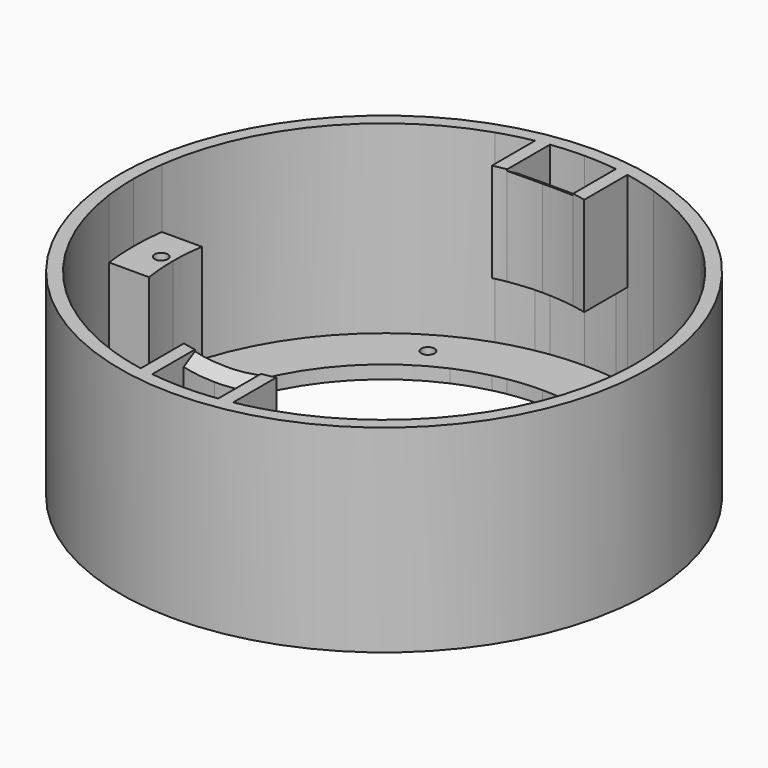
from build123d import *

# Parameters (mm, degrees)
F1_DEPTH = 30
F2_DEPTH = 21
F3_START = 15
F3_DEPTH = 15
F0_R     = 1
F4_DEPTH = 2
F5_START = 15
F5_DEPTH = 15
F6_START = 4
F6_DEPTH = 26
F8_START = -2
F8_DEPTH = 10


with BuildPart() as f1:
    # F0 (on Top) → F1 (new body)
    with BuildSketch(Plane.XY):
        with BuildLine():
            ThreePointArc((-5, 37.6696164037), (-2.5054517218, 37.917314141), (0, 38))
            Line((0, 38), (0, 40))
            ThreePointArc((0, 40), (-26.4575131106, 30), (-39.686269666, 5))
            Line((-39.686269666, 5), (-37.6696164037, 5))
            ThreePointArc((-37.6696164037, 5), (-29.2895700982, 24.2099377006), (-12, 36.0555127546))
            ThreePointArc((-12, 36.0555127546), (-9.5220128847, 36.7876510615), (-7, 37.349698794))
            ThreePointArc((-7, 37.349698794), (-6.0021318562, 37.5229851315), (-5, 37.6696164037))
        make_face()
        with BuildLine():
            Line((-37.6696164037, 5), (-39.686269666, 5))
            ThreePointArc((-39.686269666, 5), (-39.9214903695, 2.5049165017), (-40, 0))
            Line((-40, 0), (-38, 0))
            ThreePointArc((-38, 0), (-37.917314141, 2.5054517218), (-37.6696164037, 5))
        make_face()
        with BuildLine():
            Line((-38, 0), (-40, 0))
            ThreePointArc((-40, 0), (-39.9214903695, -2.5049165017), (-39.686269666, -5))
            Line((-39.686269666, -5), (-37.6696164037, -5))
            ThreePointArc((-37.6696164037, -5), (-37.917314141, -2.5054517218), (-38, 0))
        make_face()
        with BuildLine():
            Line((-37.6696164037, -5), (-39.686269666, -5))
            ThreePointArc((-39.686269666, -5), (-26.4575131106, -30), (0, -40))
            Line((0, -40), (0, -38))
            ThreePointArc((0, -38), (-2.5054517218, -37.917314141), (-5, -37.6696164037))
            ThreePointArc((-5, -37.6696164037), (-6.0021318562, -37.5229851315), (-7, -37.349698794))
            ThreePointArc((-7, -37.349698794), (-9.5220128847, -36.7876510615), (-12, -36.0555127546))
            ThreePointArc((-12, -36.0555127546), (-29.2895700982, -24.2099377006), (-37.6696164037, -5))
        make_face()
        with BuildLine():
            Line((39.686269666, -5), (37.6696164037, -5))
            ThreePointArc((37.6696164037, -5), (29.2895700982, -24.2099377006), (12, -36.0555127546))
            ThreePointArc((12, -36.0555127546), (9.5220128847, -36.7876510615), (7, -37.349698794))
            ThreePointArc((7, -37.349698794), (6.0021318562, -37.5229851315), (5, -37.6696164037))
            ThreePointArc((5, -37.6696164037), (2.5054517218, -37.917314141), (0, -38))
            Line((0, -38), (0, -40))
            ThreePointArc((0, -40), (26.4575131106, -30), (39.686269666, -5))
        make_face()
        with BuildLine():
            Line((40, 0), (38, 0))
            ThreePointArc((38, 0), (37.917314141, -2.5054517218), (37.6696164037, -5))
            Line((37.6696164037, -5), (39.686269666, -5))
            ThreePointArc((39.686269666, -5), (39.9214903695, -2.5049165017), (40, 0))
        make_face()
        with BuildLine():
            Line((39.686269666, 5), (37.6696164037, 5))
            ThreePointArc((37.6696164037, 5), (37.917314141, 2.5054517218), (38, 0))
            Line((38, 0), (40, 0))
            ThreePointArc((40, 0), (39.9214903695, 2.5049165017), (39.686269666, 5))
        make_face()
        with BuildLine():
            Line((29.7257930191, 26.7652242544), (28.2395033681, 25.4269630416))
            ThreePointArc((28.2395033681, 25.4269630416), (34.5009887112, 15.927390808), (37.6696164037, 5))
            Line((37.6696164037, 5), (39.686269666, 5))
            ThreePointArc((39.686269666, 5), (36.372240215, 16.6451236625), (29.7257930191, 26.7652242544))
        make_face()
        with BuildLine():
            ThreePointArc((7, 37.349698794), (9.5220128847, 36.7876510615), (12, 36.0555127546))
            ThreePointArc((12, 36.0555127546), (19.1171883736, 32.8410278263), (25.4269630416, 28.2395033681))
            Line((25.4269630416, 28.2395033681), (26.7652242544, 29.7257930191))
            ThreePointArc((26.7652242544, 29.7257930191), (14.3347179818, 37.3432170599), (0, 40))
            Line((0, 40), (0, 38))
            ThreePointArc((0, 38), (2.5054517218, 37.917314141), (5, 37.6696164037))
            ThreePointArc((5, 37.6696164037), (6.0021318562, 37.5229851315), (7, 37.349698794))
        make_face()
    extrude(amount=F1_DEPTH)

    # F0 (on Top) → F2 (join)
    with BuildSketch(Plane.XY):
        with BuildLine():
            Line((-31.6083544215, 5), (-37.6696164037, 5))
            ThreePointArc((-37.6696164037, 5), (-37.917314141, 2.5054517218), (-38, 0))
            Line((-38, 0), (-34.7751302719, 0))
            ThreePointArc((-34.7751302719, 0), (-33.7751302719, 1), (-32.7751302719, 0))
            Line((-32.7751302719, 0), (-32, 0))
            ThreePointArc((-32, 0), (-31.9019388817, 2.5076575852), (-31.6083544215, 5))
        make_face()
        with BuildLine():
            Line((-34.7751302719, 0), (-38, 0))
            ThreePointArc((-38, 0), (-37.917314141, -2.5054517218), (-37.6696164037, -5))
            Line((-37.6696164037, -5), (-31.6083544215, -5))
            ThreePointArc((-31.6083544215, -5), (-31.9019388817, -2.5076575852), (-32, 0))
            Line((-32, 0), (-32.7751302719, 0))
            ThreePointArc((-32.7751302719, 0), (-33.7751302719, -1), (-34.7751302719, 0))
        make_face()
        with BuildLine():
            ThreePointArc((38, 0), (37.917314141, 2.5054517218), (37.6696164037, 5))
            Line((37.6696164037, 5), (31.8332241496, 5))
            ThreePointArc((31.8332241496, 5), (32.1268086098, 2.5076575852), (32.2248697281, 0))
            Line((32.2248697281, 0), (33, 0))
            ThreePointArc((33, 0), (34, 1), (35, 0))
            Line((35, 0), (38, 0))
        make_face()
        with BuildLine():
            ThreePointArc((37.6696164037, -5), (37.917314141, -2.5054517218), (38, 0))
            Line((38, 0), (35, 0))
            ThreePointArc((35, 0), (34, -1), (33, 0))
            Line((33, 0), (32.2248697281, 0))
            ThreePointArc((32.2248697281, 0), (32.1268086098, -2.5076575852), (31.8332241496, -5))
            Line((31.8332241496, -5), (37.6696164037, -5))
        make_face()
    extrude(amount=F2_DEPTH)

    # F0 (on Top) → F3 (join)
    with BuildSketch(Plane.XY.offset(F3_START)):
        with BuildLine():
            Line((-5, 31.7028623733), (-5, 37.6696164037))
            ThreePointArc((-5, 37.6696164037), (-6.0021318562, 37.5229851315), (-7, 37.349698794))
            Line((-7, 37.349698794), (-7, 31.3148805395))
            ThreePointArc((-7, 31.3148805395), (-6.0030775792, 31.5247360093), (-5, 31.7028623733))
        make_face()
        with BuildLine():
            Line((-5, 29.5803989155), (-5, 31.7028623733))
            ThreePointArc((-5, 31.7028623733), (-6.0030775792, 31.5247360093), (-7, 31.3148805395))
            Line((-7, 31.3148805395), (-7, 29.1719042916))
            ThreePointArc((-7, 29.1719042916), (-6.0034754072, 29.3931672849), (-5, 29.5803989155))
        make_face()
        with BuildLine():
            Line((7, 29.1719042916), (7, 31.3651067174))
            ThreePointArc((7, 31.3651067174), (6.0029563169, 31.5675502678), (5, 31.7383077674))
            Line((5, 31.7383077674), (5, 29.5803989155))
            ThreePointArc((5, 29.5803989155), (6.0034754072, 29.3931672849), (7, 29.1719042916))
        make_face()
        with BuildLine():
            Line((7, 31.3651067174), (7, 37.349698794))
            ThreePointArc((7, 37.349698794), (6.0021318562, 37.5229851315), (5, 37.6696164037))
            Line((5, 37.6696164037), (5, 31.7383077674))
            ThreePointArc((5, 31.7383077674), (6.0029563169, 31.5675502678), (7, 31.3651067174))
        make_face()
        with BuildLine():
            ThreePointArc((7, -29.1719042916), (6.0034754072, -29.3931672849), (5, -29.5803989155))
            Line((5, -29.5803989155), (5, -31.7383077674))
            ThreePointArc((5, -31.7383077674), (6.0029563169, -31.5675502678), (7, -31.3651067174))
            Line((7, -31.3651067174), (7, -29.1719042916))
        make_face()
        with BuildLine():
            ThreePointArc((5, -37.6696164037), (6.0021318562, -37.5229851315), (7, -37.349698794))
            Line((7, -37.349698794), (7, -31.3651067174))
            ThreePointArc((7, -31.3651067174), (6.0029563169, -31.5675502678), (5, -31.7383077674))
            Line((5, -31.7383077674), (5, -37.6696164037))
        make_face()
        with BuildLine():
            Line((-5, -37.6696164037), (-5, -31.7028623733))
            ThreePointArc((-5, -31.7028623733), (-6.0030775792, -31.5247360093), (-7, -31.3148805395))
            Line((-7, -31.3148805395), (-7, -37.349698794))
            ThreePointArc((-7, -37.349698794), (-6.0021318562, -37.5229851315), (-5, -37.6696164037))
        make_face()
        with BuildLine():
            Line((-5, -31.7028623733), (-5, -29.5803989155))
            ThreePointArc((-5, -29.5803989155), (-6.0034754072, -29.3931672849), (-7, -29.1719042916))
            Line((-7, -29.1719042916), (-7, -31.3148805395))
            ThreePointArc((-7, -31.3148805395), (-6.0030775792, -31.5247360093), (-5, -31.7028623733))
        make_face()
    extrude(amount=F3_DEPTH)

    # F0 (on Top) → F4 (join)
    with BuildSketch(Plane.XY):
        with BuildLine():
            ThreePointArc((-12, 36.0555127546), (-29.2895700982, 24.2099377006), (-37.6696164037, 5))
            Line((-37.6696164037, 5), (-31.6083544215, 5))
            ThreePointArc((-31.6083544215, 5), (-25.0542292215, 19.9461147019), (-12, 29.7405009131))
            Line((-12, 29.7405009131), (-12, 36.0555127546))
        make_face()
        with Locations((-16.8313477039, 29.3474922801)):
            Circle(F0_R, mode=Mode.SUBTRACT)
        with BuildLine():
            Line((0, 30), (0, 32.1122380301))
            ThreePointArc((0, 32.1122380301), (-2.5080065159, 32.0053395525), (-5, 31.7028623733))
            Line((-5, 31.7028623733), (-5, 29.5803989155))
            ThreePointArc((-5, 29.5803989155), (-2.5087878084, 29.8949156836), (0, 30))
        make_face()
        with BuildLine():
            Line((0, 32.1122380301), (0, 38))
            ThreePointArc((0, 38), (-2.5054517218, 37.917314141), (-5, 37.6696164037))
            Line((-5, 37.6696164037), (-5, 31.7028623733))
            ThreePointArc((-5, 31.7028623733), (-2.5080065159, 32.0053395525), (0, 32.1122380301))
        make_face()
        with BuildLine():
            Line((5, 29.5803989155), (5, 31.7383077674))
            ThreePointArc((5, 31.7383077674), (2.5073092321, 32.0230081294), (0, 32.1122380301))
            Line((0, 32.1122380301), (0, 30))
            ThreePointArc((0, 30), (2.5087878084, 29.8949156836), (5, 29.5803989155))
        make_face()
        with BuildLine():
            Line((5, 31.7383077674), (5, 37.6696164037))
            ThreePointArc((5, 37.6696164037), (2.5054517218, 37.917314141), (0, 38))
            Line((0, 38), (0, 32.1122380301))
            ThreePointArc((0, 32.1122380301), (2.5073092321, 32.0230081294), (5, 31.7383077674))
        make_face()
        with BuildLine():
            ThreePointArc((25.4269630416, 28.2395033681), (19.1171883736, 32.8410278263), (12, 36.0555127546))
            Line((12, 36.0555127546), (12, 29.831095656))
            ThreePointArc((12, 29.831095656), (17.0290262302, 27.2953734074), (21.5376813852, 23.9200184868))
            Line((21.5376813852, 23.9200184868), (25.4269630416, 28.2395033681))
        make_face()
        with Locations((17.056217432, 29.3474922801)):
            Circle(F0_R, mode=Mode.SUBTRACT)
        with BuildLine():
            ThreePointArc((12, -36.0555127546), (29.2895700982, -24.2099377006), (37.6696164037, -5))
            Line((37.6696164037, -5), (31.8332241496, -5))
            ThreePointArc((31.8332241496, -5), (25.2036279745, -20.0409705651), (12, -29.831095656))
            Line((12, -29.831095656), (12, -36.0555127546))
        make_face()
        with Locations((17.056217432, -29.3474922801)):
            Circle(F0_R, mode=Mode.SUBTRACT)
        with BuildLine():
            ThreePointArc((5, -29.5803989155), (2.5087878084, -29.8949156836), (0, -30))
            Line((0, -30), (0, -32.1122380301))
            ThreePointArc((0, -32.1122380301), (2.5073092321, -32.0230081294), (5, -31.7383077674))
            Line((5, -31.7383077674), (5, -29.5803989155))
        make_face()
        with BuildLine():
            ThreePointArc((5, -31.7383077674), (2.5073092321, -32.0230081294), (0, -32.1122380301))
            Line((0, -32.1122380301), (0, -38))
            ThreePointArc((0, -38), (2.5054517218, -37.917314141), (5, -37.6696164037))
            Line((5, -37.6696164037), (5, -31.7383077674))
        make_face()
        with BuildLine():
            Line((0, -32.1122380301), (0, -30))
            ThreePointArc((0, -30), (-2.5087878084, -29.8949156836), (-5, -29.5803989155))
            Line((-5, -29.5803989155), (-5, -31.7028623733))
            ThreePointArc((-5, -31.7028623733), (-2.5080065159, -32.0053395525), (0, -32.1122380301))
        make_face()
        with BuildLine():
            Line((0, -38), (0, -32.1122380301))
            ThreePointArc((0, -32.1122380301), (-2.5080065159, -32.0053395525), (-5, -31.7028623733))
            Line((-5, -31.7028623733), (-5, -37.6696164037))
            ThreePointArc((-5, -37.6696164037), (-2.5054517218, -37.917314141), (0, -38))
        make_face()
        with BuildLine():
            Line((-31.6083544215, -5), (-37.6696164037, -5))
            ThreePointArc((-37.6696164037, -5), (-29.2895700982, -24.2099377006), (-12, -36.0555127546))
            Line((-12, -36.0555127546), (-12, -29.7405009131))
            ThreePointArc((-12, -29.7405009131), (-25.0542292215, -19.9461147019), (-31.6083544215, -5))
        make_face()
        with Locations((-16.8313477039, -29.3474922801)):
            Circle(F0_R, mode=Mode.SUBTRACT)
        with BuildLine():
            Line((-7, 29.1719042916), (-7, 31.3148805395))
            ThreePointArc((-7, 31.3148805395), (-9.5321787528, 30.6298857504), (-12, 29.7405009131))
            Line((-12, 29.7405009131), (-12, 27.4954541697))
            ThreePointArc((-12, 27.4954541697), (-9.5369083697, 28.4437581685), (-7, 29.1719042916))
        make_face()
        with BuildLine():
            Line((12, 27.4954541697), (12, 29.831095656))
            ThreePointArc((12, 29.831095656), (9.5312817503, 30.7000618278), (7, 31.3651067174))
            Line((7, 31.3651067174), (7, 29.1719042916))
            ThreePointArc((7, 29.1719042916), (9.5369083697, 28.4437581685), (12, 27.4954541697))
        make_face()
        with BuildLine():
            ThreePointArc((7, -31.3651067174), (9.5312817503, -30.7000618278), (12, -29.831095656))
            Line((12, -29.831095656), (12, -27.4954541697))
            ThreePointArc((12, -27.4954541697), (9.5369083697, -28.4437581685), (7, -29.1719042916))
            Line((7, -29.1719042916), (7, -31.3651067174))
        make_face()
        with BuildLine():
            ThreePointArc((-7, -29.1719042916), (-9.5369083697, -28.4437581685), (-12, -27.4954541697))
            Line((-12, -27.4954541697), (-12, -29.7405009131))
            ThreePointArc((-12, -29.7405009131), (-9.5321787528, -30.6298857504), (-7, -31.3148805395))
            Line((-7, -31.3148805395), (-7, -29.1719042916))
        make_face()
        with BuildLine():
            ThreePointArc((-30, 0), (-29.8949156836, 2.5087878084), (-29.5803989155, 5))
            Line((-29.5803989155, 5), (-31.6083544215, 5))
            ThreePointArc((-31.6083544215, 5), (-31.9019388817, 2.5076575852), (-32, 0))
            Line((-32, 0), (-30, 0))
        make_face()
        with BuildLine():
            ThreePointArc((-29.5803989155, -5), (-29.8949156836, -2.5087878084), (-30, 0))
            Line((-30, 0), (-32, 0))
            ThreePointArc((-32, 0), (-31.9019388817, -2.5076575852), (-31.6083544215, -5))
            Line((-31.6083544215, -5), (-29.5803989155, -5))
        make_face()
        with BuildLine():
            ThreePointArc((32.2248697281, 0), (32.1268086098, 2.5076575852), (31.8332241496, 5))
            Line((31.8332241496, 5), (29.5803989155, 5))
            ThreePointArc((29.5803989155, 5), (29.8949156836, 2.5087878084), (30, 0))
            Line((30, 0), (32.2248697281, 0))
        make_face()
        with BuildLine():
            ThreePointArc((31.8332241496, -5), (32.1268086098, -2.5076575852), (32.2248697281, 0))
            Line((32.2248697281, 0), (30, 0))
            ThreePointArc((30, 0), (29.8949156836, -2.5087878084), (29.5803989155, -5))
            Line((29.5803989155, -5), (31.8332241496, -5))
        make_face()
        with BuildLine():
            ThreePointArc((37.6696164037, 5), (34.5009887112, 15.927390808), (28.2395033681, 25.4269630416))
            Line((28.2395033681, 25.4269630416), (23.9262180635, 21.5432635092))
            ThreePointArc((23.9262180635, 21.5432635092), (29.0855616742, 13.8479744273), (31.8332241496, 5))
            Line((31.8332241496, 5), (37.6696164037, 5))
        make_face()
        with BuildLine():
            ThreePointArc((31.8332241496, 5), (29.0855616742, 13.8479744273), (23.9262180635, 21.5432635092))
            Line((23.9262180635, 21.5432635092), (22.2943447643, 20.0739181908))
            ThreePointArc((22.2943447643, 20.0739181908), (27.0102389913, 13.0555348275), (29.5803989155, 5))
            Line((29.5803989155, 5), (31.8332241496, 5))
        make_face()
        with BuildLine():
            Line((-5, -31.7028623733), (-5, -29.5803989155))
            ThreePointArc((-5, -29.5803989155), (-6.0034754072, -29.3931672849), (-7, -29.1719042916))
            Line((-7, -29.1719042916), (-7, -31.3148805395))
            ThreePointArc((-7, -31.3148805395), (-6.0030775792, -31.5247360093), (-5, -31.7028623733))
        make_face()
        with BuildLine():
            ThreePointArc((7, -29.1719042916), (6.0034754072, -29.3931672849), (5, -29.5803989155))
            Line((5, -29.5803989155), (5, -31.7383077674))
            ThreePointArc((5, -31.7383077674), (6.0029563169, -31.5675502678), (7, -31.3651067174))
            Line((7, -31.3651067174), (7, -29.1719042916))
        make_face()
        with BuildLine():
            Line((-5, 29.5803989155), (-5, 31.7028623733))
            ThreePointArc((-5, 31.7028623733), (-6.0030775792, 31.5247360093), (-7, 31.3148805395))
            Line((-7, 31.3148805395), (-7, 29.1719042916))
            ThreePointArc((-7, 29.1719042916), (-6.0034754072, 29.3931672849), (-5, 29.5803989155))
        make_face()
        with BuildLine():
            Line((-5, 31.7028623733), (-5, 37.6696164037))
            ThreePointArc((-5, 37.6696164037), (-6.0021318562, 37.5229851315), (-7, 37.349698794))
            Line((-7, 37.349698794), (-7, 31.3148805395))
            ThreePointArc((-7, 31.3148805395), (-6.0030775792, 31.5247360093), (-5, 31.7028623733))
        make_face()
        with BuildLine():
            Line((7, 31.3651067174), (7, 37.349698794))
            ThreePointArc((7, 37.349698794), (6.0021318562, 37.5229851315), (5, 37.6696164037))
            Line((5, 37.6696164037), (5, 31.7383077674))
            ThreePointArc((5, 31.7383077674), (6.0029563169, 31.5675502678), (7, 31.3651067174))
        make_face()
        with BuildLine():
            Line((7, 29.1719042916), (7, 31.3651067174))
            ThreePointArc((7, 31.3651067174), (6.0029563169, 31.5675502678), (5, 31.7383077674))
            Line((5, 31.7383077674), (5, 29.5803989155))
            ThreePointArc((5, 29.5803989155), (6.0034754072, 29.3931672849), (7, 29.1719042916))
        make_face()
        with BuildLine():
            Line((-5, -37.6696164037), (-5, -31.7028623733))
            ThreePointArc((-5, -31.7028623733), (-6.0030775792, -31.5247360093), (-7, -31.3148805395))
            Line((-7, -31.3148805395), (-7, -37.349698794))
            ThreePointArc((-7, -37.349698794), (-6.0021318562, -37.5229851315), (-5, -37.6696164037))
        make_face()
        with BuildLine():
            ThreePointArc((5, -37.6696164037), (6.0021318562, -37.5229851315), (7, -37.349698794))
            Line((7, -37.349698794), (7, -31.3651067174))
            ThreePointArc((7, -31.3651067174), (6.0029563169, -31.5675502678), (5, -31.7383077674))
            Line((5, -31.7383077674), (5, -37.6696164037))
        make_face()
        with BuildLine():
            Line((12, 29.831095656), (12, 36.0555127546))
            ThreePointArc((12, 36.0555127546), (9.5220128847, 36.7876510615), (7, 37.349698794))
            Line((7, 37.349698794), (7, 31.3651067174))
            ThreePointArc((7, 31.3651067174), (9.5312817503, 30.7000618278), (12, 29.831095656))
        make_face()
        with BuildLine():
            Line((-7, 31.3148805395), (-7, 37.349698794))
            ThreePointArc((-7, 37.349698794), (-9.5220128847, 36.7876510615), (-12, 36.0555127546))
            Line((-12, 36.0555127546), (-12, 29.7405009131))
            ThreePointArc((-12, 29.7405009131), (-9.5321787528, 30.6298857504), (-7, 31.3148805395))
        make_face()
        with BuildLine():
            Line((-31.6083544215, 5), (-29.5803989155, 5))
            ThreePointArc((-29.5803989155, 5), (-23.6377612745, 18.473122149), (-12, 27.4954541697))
            Line((-12, 27.4954541697), (-12, 29.7405009131))
            ThreePointArc((-12, 29.7405009131), (-25.0542292215, 19.9461147019), (-31.6083544215, 5))
        make_face()
        with BuildLine():
            ThreePointArc((21.5376813852, 23.9200184868), (17.0290262302, 27.2953734074), (12, 29.831095656))
            Line((12, 29.831095656), (12, 27.4954541697))
            ThreePointArc((12, 27.4954541697), (16.2464439736, 25.2200923514), (20.0739181908, 22.2943447643))
            Line((20.0739181908, 22.2943447643), (21.5376813852, 23.9200184868))
        make_face()
        with BuildLine():
            ThreePointArc((12, -29.831095656), (25.2036279745, -20.0409705651), (31.8332241496, -5))
            Line((31.8332241496, -5), (29.5803989155, -5))
            ThreePointArc((29.5803989155, -5), (23.6377612745, -18.473122149), (12, -27.4954541697))
            Line((12, -27.4954541697), (12, -29.831095656))
        make_face()
        with BuildLine():
            ThreePointArc((7, -37.349698794), (9.5220128847, -36.7876510615), (12, -36.0555127546))
            Line((12, -36.0555127546), (12, -29.831095656))
            ThreePointArc((12, -29.831095656), (9.5312817503, -30.7000618278), (7, -31.3651067174))
            Line((7, -31.3651067174), (7, -37.349698794))
        make_face()
        with BuildLine():
            ThreePointArc((-12, -27.4954541697), (-23.6377612745, -18.473122149), (-29.5803989155, -5))
            Line((-29.5803989155, -5), (-31.6083544215, -5))
            ThreePointArc((-31.6083544215, -5), (-25.0542292215, -19.9461147019), (-12, -29.7405009131))
            Line((-12, -29.7405009131), (-12, -27.4954541697))
        make_face()
        with BuildLine():
            Line((-12, -29.7405009131), (-12, -36.0555127546))
            ThreePointArc((-12, -36.0555127546), (-9.5220128847, -36.7876510615), (-7, -37.349698794))
            Line((-7, -37.349698794), (-7, -31.3148805395))
            ThreePointArc((-7, -31.3148805395), (-9.5321787528, -30.6298857504), (-12, -29.7405009131))
        make_face()
    extrude(amount=F4_DEPTH)

    # F0 (on Top) → F5 (join)
    with BuildSketch(Plane.XY.offset(F5_START)):
        with BuildLine():
            Line((5, 29.5803989155), (5, 31.7383077674))
            ThreePointArc((5, 31.7383077674), (2.5073092321, 32.0230081294), (0, 32.1122380301))
            Line((0, 32.1122380301), (0, 30))
            ThreePointArc((0, 30), (2.5087878084, 29.8949156836), (5, 29.5803989155))
        make_face()
        with BuildLine():
            Line((0, 30), (0, 32.1122380301))
            ThreePointArc((0, 32.1122380301), (-2.5080065159, 32.0053395525), (-5, 31.7028623733))
            Line((-5, 31.7028623733), (-5, 29.5803989155))
            ThreePointArc((-5, 29.5803989155), (-2.5087878084, 29.8949156836), (0, 30))
        make_face()
        with BuildLine():
            ThreePointArc((5, -29.5803989155), (2.5087878084, -29.8949156836), (0, -30))
            Line((0, -30), (0, -32.1122380301))
            ThreePointArc((0, -32.1122380301), (2.5073092321, -32.0230081294), (5, -31.7383077674))
            Line((5, -31.7383077674), (5, -29.5803989155))
        make_face()
        with BuildLine():
            Line((0, -32.1122380301), (0, -30))
            ThreePointArc((0, -30), (-2.5087878084, -29.8949156836), (-5, -29.5803989155))
            Line((-5, -29.5803989155), (-5, -31.7028623733))
            ThreePointArc((-5, -31.7028623733), (-2.5080065159, -32.0053395525), (0, -32.1122380301))
        make_face()
    extrude(amount=F5_DEPTH)

    # F0 (on Top) → F6 (join)
    with BuildSketch(Plane.XY.offset(F6_START)):
        with BuildLine():
            Line((26.7652242544, 29.7257930191), (25.4269630416, 28.2395033681))
            ThreePointArc((25.4269630416, 28.2395033681), (26.1574738764, 27.5642260985), (26.8700576851, 26.8700576851))
            Line((26.8700576851, 26.8700576851), (28.2842712475, 28.2842712475))
            ThreePointArc((28.2842712475, 28.2842712475), (27.5341830278, 29.0149748405), (26.7652242544, 29.7257930191))
        make_face()
        with BuildLine():
            Line((28.2842712475, 28.2842712475), (26.8700576851, 26.8700576851))
            ThreePointArc((26.8700576851, 26.8700576851), (27.5642260985, 26.1574738764), (28.2395033681, 25.4269630416))
            Line((28.2395033681, 25.4269630416), (29.7257930191, 26.7652242544))
            ThreePointArc((29.7257930191, 26.7652242544), (29.0149748405, 27.5341830278), (28.2842712475, 28.2842712475))
        make_face()
    extrude(amount=F6_DEPTH)

    # F7 (on face) → F8 (cut)
    with BuildSketch(Plane.YZ.offset(7).offset(F8_START)):
        Polygon((32.1719042916, 30), (29.1719042916, 30), (32.1719042916, 28.2679491924), align=None)
        Polygon((-32.1719042916, 28.2679491924), (-29.1719042916, 30), (-32.1719042916, 30), align=None)
    extrude(amount=-F8_DEPTH, mode=Mode.SUBTRACT)


solid = f1.part
